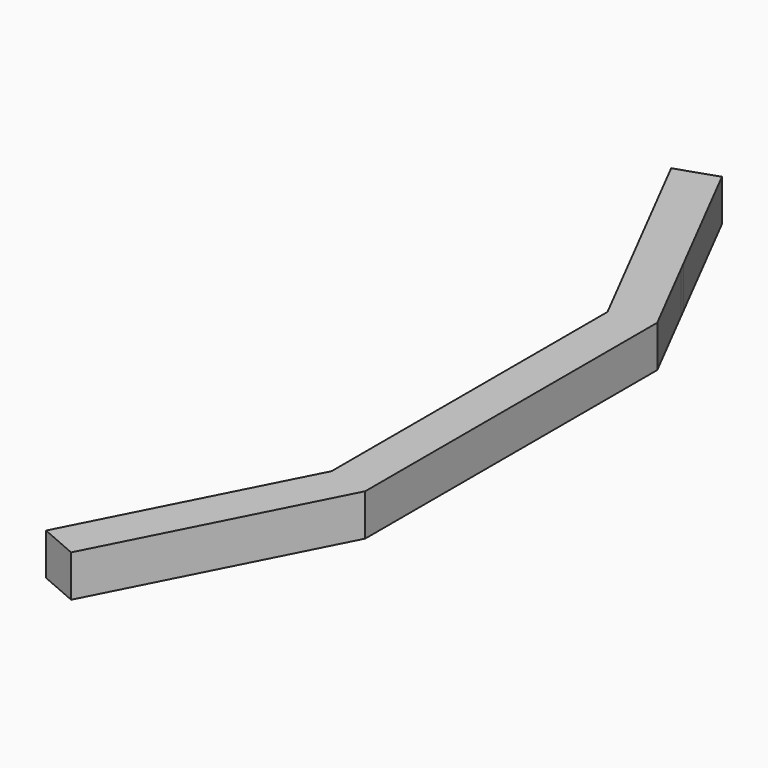
from build123d import *

# Parameters (mm, degrees)
F1_DEPTH = 10


with BuildPart() as f1:
    # F0 (on Top) → F1 (new body, symmetric)
    with BuildSketch(Plane.XY):
        Polygon((-12.415687, 121.606898), (5.389277, 130.716414), (-27.5, 195), (-46.656741, 188.532595), align=None)
        Polygon((7.5, 82.680783), (7.5, 126.590909), (5.389277, 130.716414), (-12.415687, 121.606898), align=None)
        Polygon((7.5, 0), (27.5, 0), (27.5, 87.5), (7.5, 126.590909), (7.5, 82.680783), align=None)
        Polygon((27.5, -87.5), (27.5, 0), (7.5, 0), (7.5, -82.680783), (-17.804963, -132.140484), (0, -141.25), align=None)
        Polygon((-27.5, -195), (0, -141.25), (-17.804963, -132.140484), (-45.884107, -187.022447), align=None)
    extrude(amount=F1_DEPTH, both=True)


solid = f1.part
